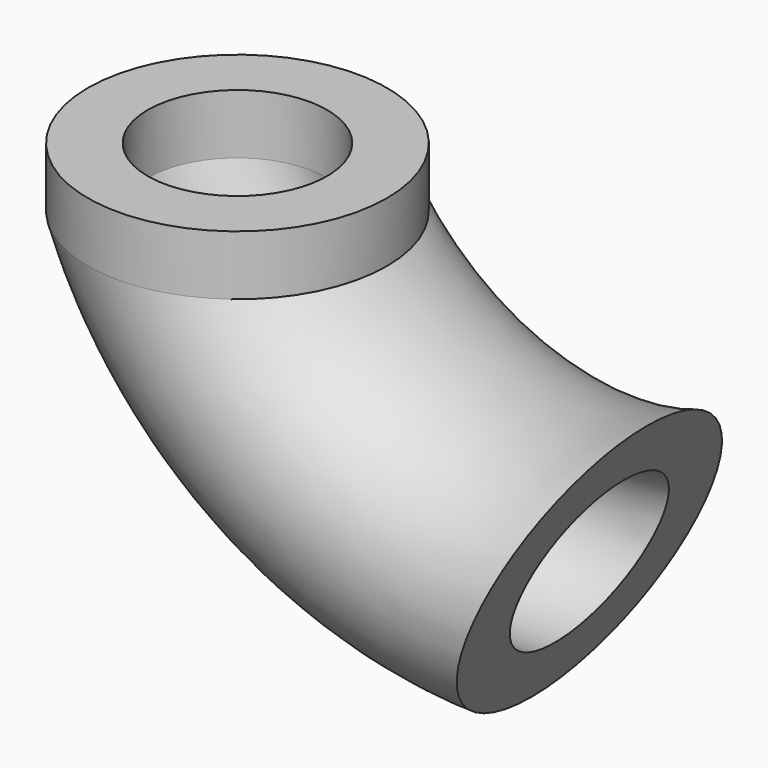
from build123d import *

# Parameters (mm, degrees)
F0_W        = 4
F0_H        = 4
F1_FACE_R   = 10
F1_FACE_R_2 = 6


with BuildPart() as f1:
    # F0 (on Front) → F1 (revolve)
    with BuildSketch(Plane.XZ):
        with Locations((-8, 12)):
            Rectangle(F0_W, F0_H)
    revolve(axis=Axis((0, 0, 15.521475), (0, 0, -1)))

    # F2: sweep along a path in F0
    with BuildLine(Plane.XZ) as f2_path:
        ThreePointArc((0, 10), (9.806774, -0.053029), (23.542309, -2.980701))
    # F1_face (on face) → F2 (sweep)
    with BuildSketch(Plane(origin=(0, 0, 10), x_dir=(1, 0, 0), z_dir=(0, 0, -1))):
        Circle(F1_FACE_R)
        Circle(F1_FACE_R_2, mode=Mode.SUBTRACT)
    sweep(path=f2_path.line)


solid = f1.part
